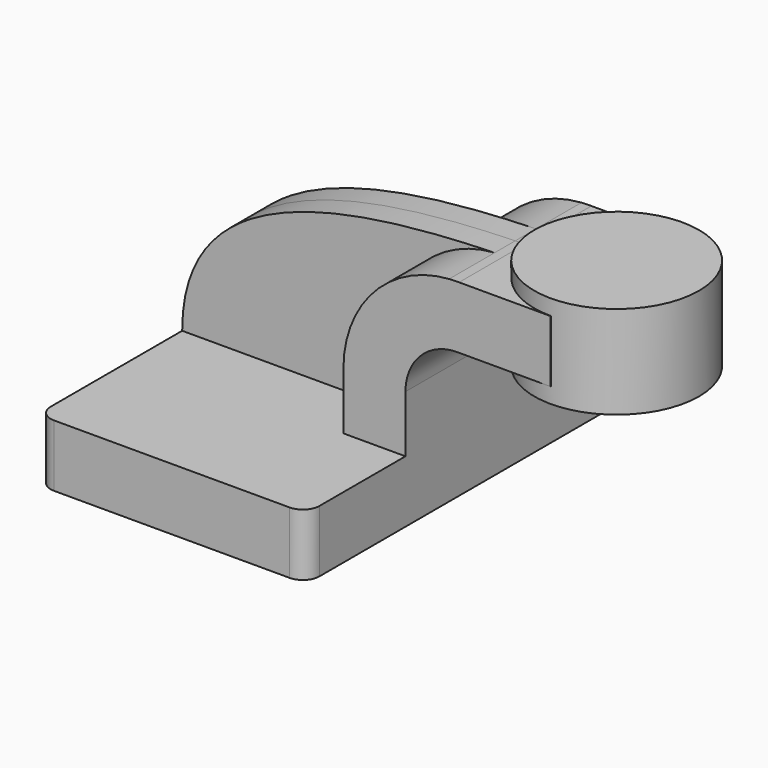
from build123d import *

# Parameters (mm, degrees)
F1_DEPTH = 63.5
F0_W     = 25.5068594253
F0_H     = 19.05
F2_DEPTH = 25.4
F4_DEPTH = 7.9375
F5_R     = 5.08


with BuildPart() as f1:
    # F0 (on Front) → F1 (new body, symmetric)
    with BuildSketch(Plane.XZ):
        Polygon((22.225, 9.525), (-41.275, 9.525), (-41.275, -9.525), (41.275, -9.525), (41.275, 9.525), align=None)
    extrude(amount=F1_DEPTH, both=True)

    # F0 (on Front) → F2 (join, symmetric)
    with BuildSketch(Plane.XZ):
        with BuildLine():
            Line((22.225, 27.0052991994), (22.225, 9.525))
            Line((22.225, 9.525), (41.275, 9.525))
            Line((41.275, 9.525), (41.275, 27.0052991994))
            ThreePointArc((41.275, 27.0052991994), (46.0678396882, 38.3719762786), (57.5523351588, 42.8752))
            Line((57.5523351588, 42.8752), (60.325, 42.8752))
            Line((60.325, 42.8752), (60.325, 61.9252))
            Line((60.325, 61.9252), (57.7467856216, 61.9252))
            add(Edge.make_bspline(
                [(54.7118794678, 61.8450924432), (55.7241751025, 61.874777301), (56.735971204, 61.9013896481), (57.7467856217, 61.9252)],
                knots=[109.6921191668, 109.6921191668, 109.6921191668, 109.6921191668, 112.0316695749, 112.0316695749, 112.0316695749, 112.0316695749], degree=3))
            ThreePointArc((54.7118794678, 61.8450924432), (31.6068308095, 50.8234043446), (22.225, 27.0052991994))
        make_face()
        with Locations((73.0784297127, 52.4002)):
            Rectangle(F0_W, F0_H)
    extrude(amount=F2_DEPTH, both=True)

    # F0 (on Front) → F3 (revolve)
    with BuildSketch(Plane.XZ):
        Polygon((85.8318594253, 66.675), (85.8318594253, 61.9252), (85.8318594253, 42.8752), (85.8318594253, 38.1), (111.125, 38.1), (111.125, 66.675), align=None)
    revolve(axis=Axis((85.8318594253, 0, 52.3875), (0, 0, 1)))

    # F0 (on Front) → F4 (join, symmetric)
    with BuildSketch(Plane.XZ):
        with BuildLine():
            add(Edge.make_bspline(
                [(-41.275, 9.525), (-41.3111924675, 52.3071991607), (7.2494041966, 60.4532887264), (54.7118794678, 61.8450924432)],
                knots=[0, 0, 0, 0, 109.6921191668, 109.6921191668, 109.6921191668, 109.6921191668], degree=3))
            Line((-41.275, 9.525), (22.225, 9.525))
            Line((22.225, 9.525), (22.225, 27.0052991994))
            ThreePointArc((22.225, 27.0052991994), (31.6068308095, 50.8234043446), (54.7118794678, 61.8450924432))
        make_face()
    extrude(amount=F4_DEPTH, both=True)

    # F5
    f5_edges = [f1.edges().sort_by_distance(p)[0] for p in [
        (-41.275, -63.5, 0),
        (41.275, -63.5, 0),
        (41.275, 63.5, 0),
        (-41.275, 63.5, 0),
    ]]
    fillet(f5_edges, radius=F5_R)


solid = f1.part
